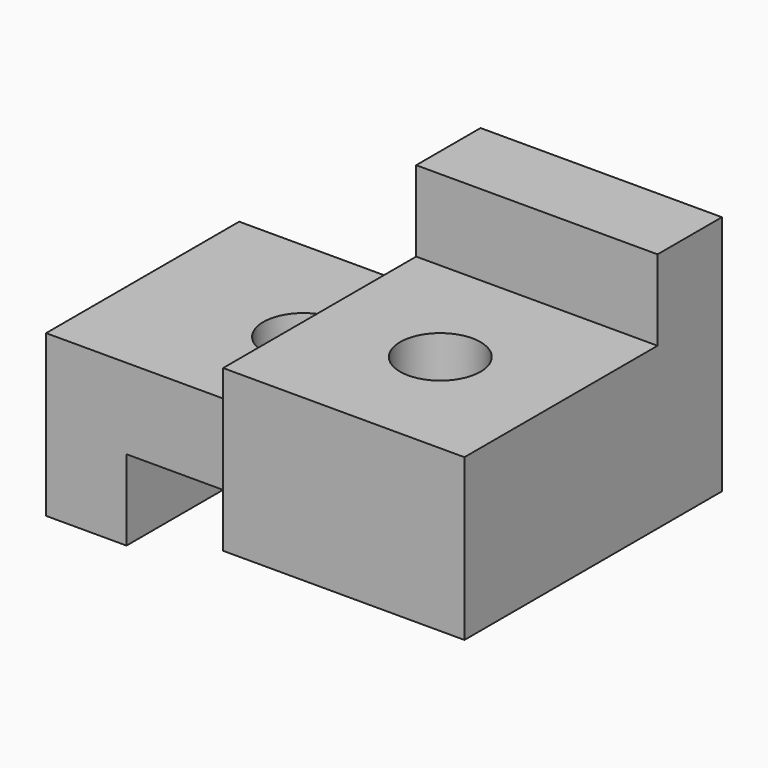
from build123d import *

# Parameters (mm, degrees)
F0_R     = 3.175
F0_W     = 19.05
F0_H     = 6.35
F1_DEPTH = 6.35
F0_W_2   = 6.35
F0_H_2   = 19.05
F2_DEPTH = 12.7
F3_DEPTH = 6.35
F4_DEPTH = 12.7


with BuildPart() as f1:
    # F0 (on Top) → F1 (new body)
    with BuildSketch(Plane.XY):
        Polygon((-12.7, 0), (0, 0), (0, 12.7), (0, 19.05), (-12.7, 19.05), align=None)
        with Locations((-6.35, 9.525)):
            Circle(F0_R, mode=Mode.SUBTRACT)
        with Locations((9.525, 15.875)):
            Rectangle(F0_W, F0_H)
        Polygon((0, 12.7), (0, 0), (0, -6.35), (19.05, -6.35), (19.05, 12.7), align=None)
        with Locations((9.525, 3.175)):
            Circle(F0_R, mode=Mode.SUBTRACT)
    extrude(amount=-F1_DEPTH)

    # F0 (on Top) → F2 (join)
    with BuildSketch(Plane.XY):
        with Locations((-15.875, 9.525)):
            Rectangle(F0_W_2, F0_H_2)
    extrude(amount=-F2_DEPTH)

    # F0 (on Top) → F3 (join)
    with BuildSketch(Plane.XY):
        Polygon((0, 12.7), (0, 0), (0, -6.35), (19.05, -6.35), (19.05, 12.7), align=None)
        with Locations((9.525, 3.175)):
            Circle(F0_R, mode=Mode.SUBTRACT)
    extrude(amount=F3_DEPTH)

    # F0 (on Top) → F4 (join)
    with BuildSketch(Plane.XY):
        with Locations((9.525, 15.875)):
            Rectangle(F0_W, F0_H)
    extrude(amount=F4_DEPTH)


solid = f1.part
